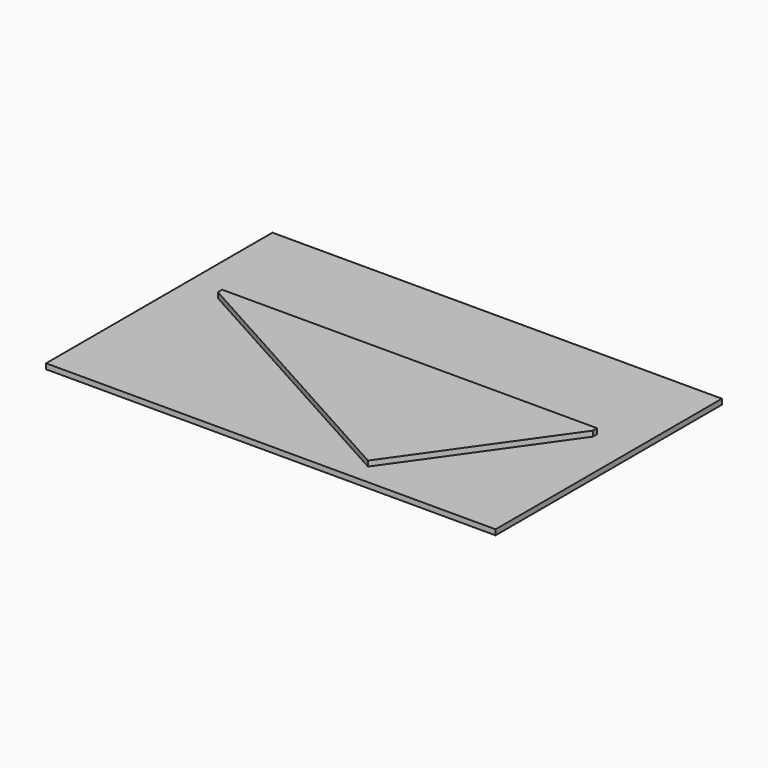
from build123d import *

# Parameters (mm, degrees)
F0_W     = 214.279652
F0_H     = 134.882764
F1_DEPTH = 2.54
F2_DEPTH = 5.08


with BuildPart() as f1:
    # F0 (on Top) → F1 (new body)
    with BuildSketch(Plane.XY):
        with Locations((0, -2.299138)):
            Rectangle(F0_W, F0_H)
        Polygon((88.746727, 13.729138), (88.746727, 11.189138), (38.472239, -59.930865), (-89.972936, 11.189138), (-89.972936, 13.729138), align=None, mode=Mode.SUBTRACT)
    extrude(amount=F1_DEPTH)

    # F0 (on Top) → F2 (join)
    with BuildSketch(Plane.XY):
        Polygon((38.472239, -59.930865), (88.746727, 11.189138), (88.746727, 13.729138), (-89.972936, 13.729138), (-89.972936, 11.189138), align=None)
    extrude(amount=F2_DEPTH)


solid = f1.part
